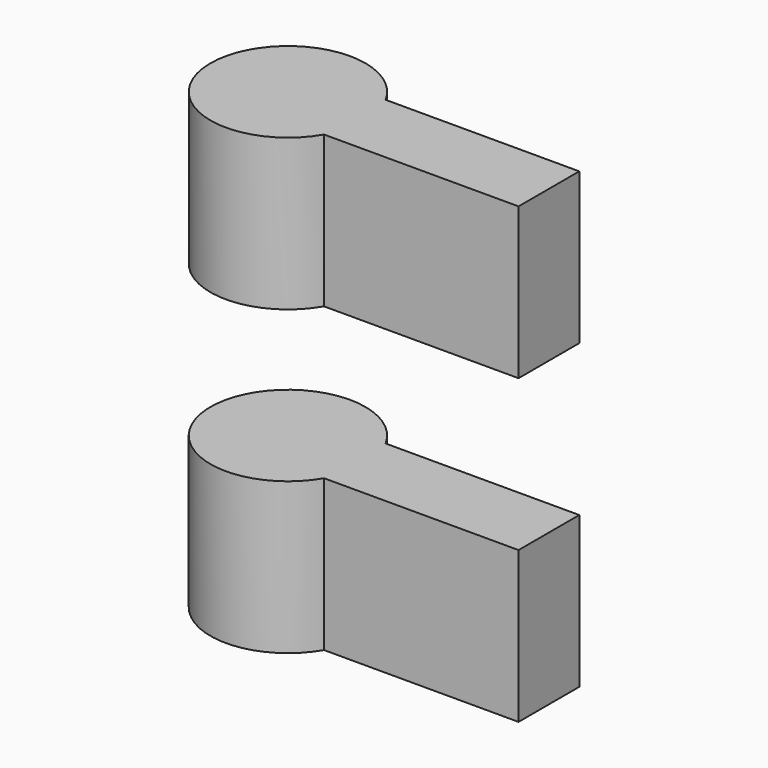
from build123d import *

# Parameters (mm, degrees)
F1_DEPTH = 25
F4_DEPTH = 25


with BuildPart() as f1:
    # F0 (on Top) → F1 (new body)
    with BuildSketch(Plane.XY):
        with BuildLine():
            ThreePointArc((11.086874908, -6.4097205177), (12.3690343404, -3.3181774858), (12.8063777994, 0))
            ThreePointArc((12.8063777994, 0), (12.4086456217, 3.166832199), (11.2401541047, 6.136957556))
            Line((11.2401541047, 6.136957556), (3.9549423382, 6.136957556))
            Line((3.9549423382, 6.136957556), (3.9549423382, -6.4097205177))
            Line((3.9549423382, -6.4097205177), (11.086874908, -6.4097205177))
        make_face()
        with BuildLine():
            ThreePointArc((11.2401541047, 6.136957556), (12.4086456217, 3.166832199), (12.8063777994, 0))
            ThreePointArc((12.8063777994, 0), (12.3690343404, -3.3181774858), (11.086874908, -6.4097205177))
            Line((11.086874908, -6.4097205177), (43.2315021753, -6.4097205177))
            Line((43.2315021753, -6.4097205177), (43.2315021753, 6.136957556))
            Line((43.2315021753, 6.136957556), (11.2401541047, 6.136957556))
        make_face()
        with BuildLine():
            Line((3.9549423382, 6.136957556), (11.2401541047, 6.136957556))
            ThreePointArc((11.2401541047, 6.136957556), (-12.8054222424, 0.1564402006), (11.086874908, -6.4097205177))
            Line((11.086874908, -6.4097205177), (3.9549423382, -6.4097205177))
            Line((3.9549423382, -6.4097205177), (3.9549423382, 6.136957556))
        make_face()
    extrude(amount=F1_DEPTH)


with BuildPart() as f4:
    # F3 (on offset) → F4 (new body)
    with BuildSketch(Plane.XY.offset(50)):
        with BuildLine():
            Line((43.2315021753, 6.136957556), (11.2401541047, 6.136957556))
            ThreePointArc((11.2401541047, 6.136957556), (-1.6690217307, 12.6971523896), (-12.4443050234, 3.0236707535))
            ThreePointArc((-12.4443050234, 3.0236707535), (-4.7652777304, -11.8867758662), (11.086874908, -6.4097205177))
            Line((11.086874908, -6.4097205177), (43.2315021753, -6.4097205177))
            Line((43.2315021753, -6.4097205177), (43.2315021753, 6.136957556))
        make_face()
    extrude(amount=F4_DEPTH)


solid = Compound([f1.part, f4.part])
